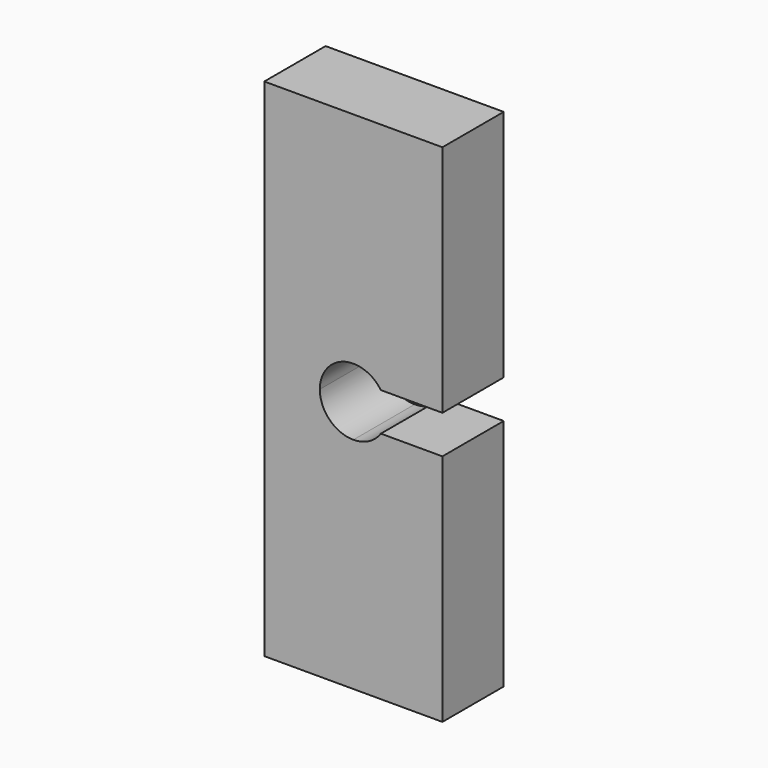
from build123d import *

# Parameters (mm, degrees)
F1_DEPTH = 3.175


with BuildPart() as f1:
    # F0 (on Front) → F1 (new body, symmetric)
    with BuildSketch(Plane.XZ):
        with BuildLine():
            Line((7.378469, 20.95649), (0, 20.95649))
            Line((0, 20.95649), (0, 19.685))
            ThreePointArc((0, 19.685), (2.245064, 18.755064), (3.175, 16.51))
            ThreePointArc((3.175, 16.51), (2.245064, 14.264936), (0, 13.335))
            Line((0, 13.335), (0, 2.778125))
            ThreePointArc((0, 2.778125), (1.286022, 2.462545), (2.279873, 1.5875))
            Line((2.279873, 1.5875), (7.378469, 1.5875))
            Line((7.378469, 1.5875), (7.378469, 20.95649))
        make_face()
        with BuildLine():
            Line((0, 20.95649), (-7.378469, 20.95649))
            Line((-7.378469, 20.95649), (-7.378469, 0))
            Line((-7.378469, 0), (-2.778125, 0))
            ThreePointArc((-2.778125, 0), (-1.964431, 1.964431), (0, 2.778125))
            Line((0, 2.778125), (0, 13.335))
            ThreePointArc((0, 13.335), (-3.175, 16.51), (0, 19.685))
            Line((0, 19.685), (0, 20.95649))
        make_face()
        with BuildLine():
            Line((-2.778125, 0), (-7.378469, 0))
            Line((-7.378469, 0), (-7.378469, -20.95649))
            Line((-7.378469, -20.95649), (0, -20.95649))
            Line((0, -20.95649), (0, -19.685))
            ThreePointArc((0, -19.685), (-3.175, -16.51), (0, -13.335))
            Line((0, -13.335), (0, -2.778125))
            ThreePointArc((0, -2.778125), (-1.964431, -1.964431), (-2.778125, 0))
        make_face()
        with BuildLine():
            Line((0, -19.685), (0, -20.95649))
            Line((0, -20.95649), (7.378469, -20.95649))
            Line((7.378469, -20.95649), (7.378469, -1.5875))
            Line((7.378469, -1.5875), (2.279873, -1.5875))
            ThreePointArc((2.279873, -1.5875), (1.286022, -2.462545), (0, -2.778125))
            Line((0, -2.778125), (0, -13.335))
            ThreePointArc((0, -13.335), (2.245064, -14.264936), (3.175, -16.51))
            ThreePointArc((3.175, -16.51), (2.245064, -18.755064), (0, -19.685))
        make_face()
        with BuildLine():
            ThreePointArc((0, -13.335), (-3.175, -16.51), (0, -19.685))
            Line((0, -19.685), (0, -18.2626))
            ThreePointArc((0, -18.2626), (-1.7526, -16.51), (0, -14.7574))
            Line((0, -14.7574), (0, -13.335))
        make_face()
        with BuildLine():
            Line((0, -18.2626), (0, -19.685))
            ThreePointArc((0, -19.685), (2.245064, -18.755064), (3.175, -16.51))
            ThreePointArc((3.175, -16.51), (2.245064, -14.264936), (0, -13.335))
            Line((0, -13.335), (0, -14.7574))
            ThreePointArc((0, -14.7574), (1.239275, -15.270725), (1.7526, -16.51))
            ThreePointArc((1.7526, -16.51), (1.239275, -17.749275), (0, -18.2626))
        make_face()
        with BuildLine():
            Line((0, 18.2626), (0, 19.685))
            ThreePointArc((0, 19.685), (-3.175, 16.51), (0, 13.335))
            Line((0, 13.335), (0, 14.7574))
            ThreePointArc((0, 14.7574), (-1.7526, 16.51), (0, 18.2626))
        make_face()
        with BuildLine():
            ThreePointArc((3.175, 16.51), (2.245064, 18.755064), (0, 19.685))
            Line((0, 19.685), (0, 18.2626))
            ThreePointArc((0, 18.2626), (1.239275, 17.749275), (1.7526, 16.51))
            ThreePointArc((1.7526, 16.51), (1.239275, 15.270725), (0, 14.7574))
            Line((0, 14.7574), (0, 13.335))
            ThreePointArc((0, 13.335), (2.245064, 14.264936), (3.175, 16.51))
        make_face()
        with BuildLine():
            Line((0, -14.7574), (0, -18.2626))
            ThreePointArc((0, -18.2626), (1.239275, -17.749275), (1.7526, -16.51))
            ThreePointArc((1.7526, -16.51), (1.239275, -15.270725), (0, -14.7574))
        make_face()
        with BuildLine():
            ThreePointArc((0, -14.7574), (-1.7526, -16.51), (0, -18.2626))
            Line((0, -18.2626), (0, -14.7574))
        make_face()
        with BuildLine():
            Line((0, 14.7574), (0, 18.2626))
            ThreePointArc((0, 18.2626), (-1.7526, 16.51), (0, 14.7574))
        make_face()
        with BuildLine():
            ThreePointArc((1.7526, 16.51), (1.239275, 17.749275), (0, 18.2626))
            Line((0, 18.2626), (0, 14.7574))
            ThreePointArc((0, 14.7574), (1.239275, 15.270725), (1.7526, 16.51))
        make_face()
    extrude(amount=F1_DEPTH, both=True)


solid = f1.part
